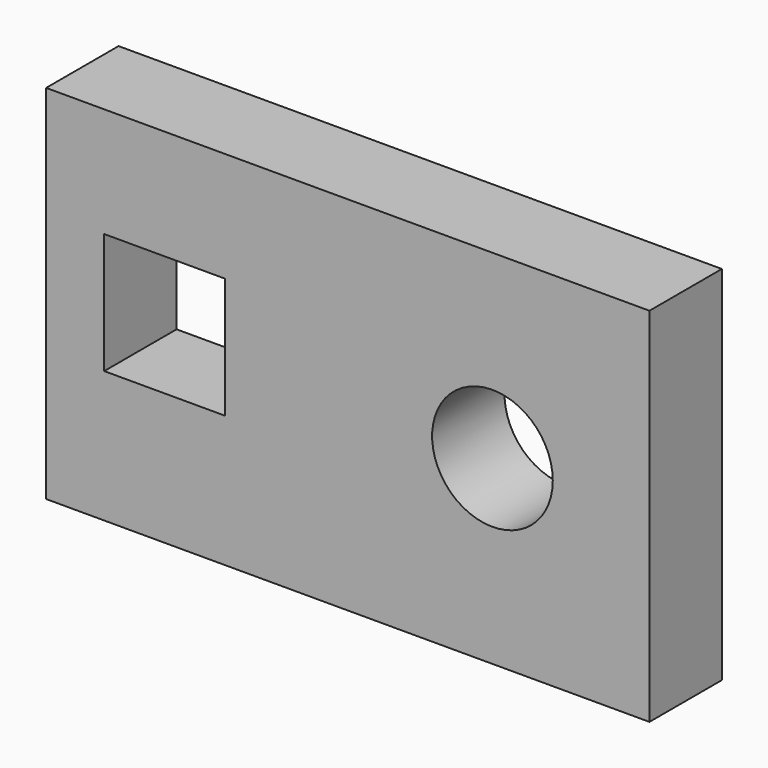
from build123d import *

# Parameters (mm, degrees)
F1_W     = 127
F1_H     = 76.2
F1_W_2   = 25.4
F1_H_2   = 25.4
F1_R     = 12.7
F2_DEPTH = 19.05


with BuildPart() as f2:
    # F1 (on face) → F2 (new body)
    with BuildSketch(Plane.XZ):
        with Locations((-73.608475, 38.1)):
            Rectangle(F1_W, F1_H)
        with Locations((-112.187377, 40.388427)):
            Rectangle(F1_W_2, F1_H_2, mode=Mode.SUBTRACT)
        with Locations((-43.158785, 38.1)):
            Circle(F1_R, mode=Mode.SUBTRACT)
    extrude(amount=F2_DEPTH)


solid = f2.part
